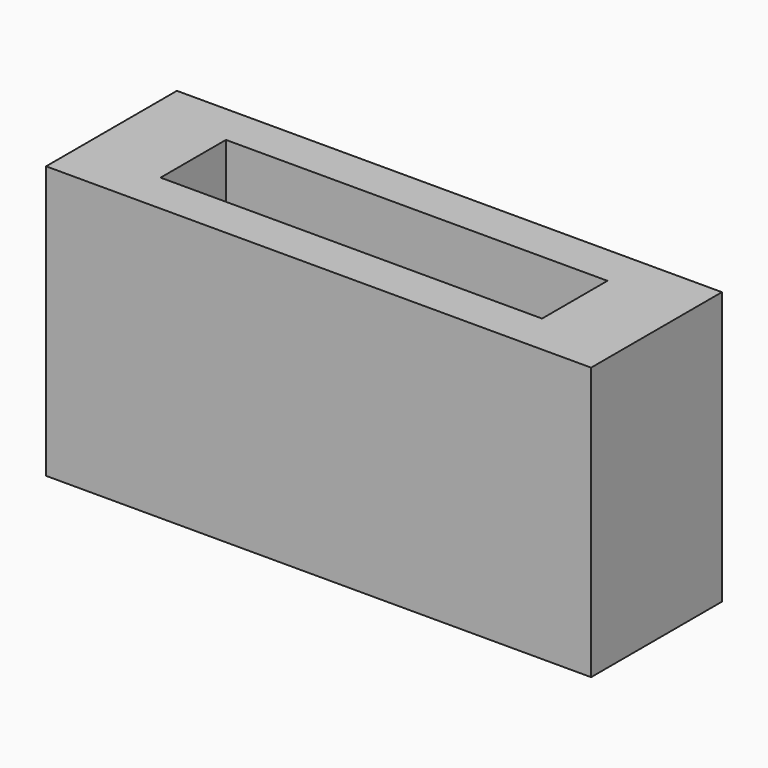
from build123d import *

# Parameters (mm, degrees)
F0_W     = 100
F0_H     = 30
F1_DEPTH = 50
F2_W     = 70
F2_H     = 15
F3_DEPTH = 30
F4_R     = 3.5
F5_DEPTH = 15


with BuildPart() as f1:
    # F0 (on Top) → F1 (new body)
    with BuildSketch(Plane.XY):
        Rectangle(F0_W, F0_H)
    extrude(amount=F1_DEPTH)

    # F2 (on face) → F3 (cut)
    with BuildSketch(Plane.XY.offset(50)):
        Rectangle(F2_W, F2_H)
    extrude(amount=-F3_DEPTH, mode=Mode.SUBTRACT)

    # F4 (on face) → F5 (join)
    with BuildSketch(Plane.XY.offset(20)):
        with Locations((-1.711591, 0)):
            Circle(F4_R)
        with Locations((29, 0)):
            Circle(F4_R)
        with Locations((-29, 0)):
            Circle(F4_R)
    extrude(amount=F5_DEPTH)


solid = f1.part
